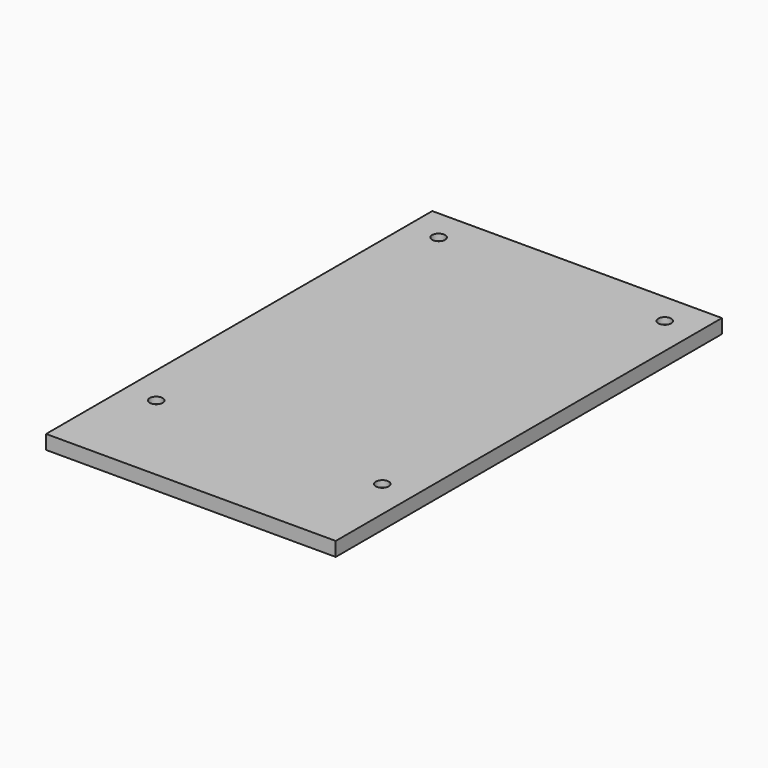
from build123d import *

# Parameters (mm, degrees)
CYLINDER007_R     = 2.8
CYLINDER007_DEPTH = 1.75
CYLINDER006_R     = 2.8
CYLINDER006_DEPTH = 1.75
CYLINDER005_R     = 2.8
CYLINDER005_DEPTH = 1.75
CYLINDER004_R     = 2.8
CYLINDER004_DEPTH = 1.75
CYLINDER003_R     = 1.5
CYLINDER003_DEPTH = 10
CYLINDER002_R     = 1.5
CYLINDER002_DEPTH = 10
CYLINDER001_R     = 1.5
CYLINDER001_DEPTH = 10
CYLINDER_R        = 1.5
CYLINDER_DEPTH    = 10
BOX001_W          = 66.69
BOX001_H          = 111.14
BOX001_DEPTH      = 3.25


with BuildPart() as cylinder007:
    # Cylinder007 → Cylinder007 (new body)
    with BuildSketch(Plane(origin=(55.88, 100.33, 0), x_dir=(1, 0, 0), z_dir=(0, 0, 1))):
        Circle(CYLINDER007_R)
    extrude(amount=CYLINDER007_DEPTH)


with BuildPart() as cylinder006:
    # Cylinder006 → Cylinder006 (new body)
    with BuildSketch(Plane(origin=(3.81, 100.33, 0), x_dir=(1, 0, 0), z_dir=(0, 0, 1))):
        Circle(CYLINDER006_R)
    extrude(amount=CYLINDER006_DEPTH)


with BuildPart() as cylinder005:
    # Cylinder005 → Cylinder005 (new body)
    with BuildSketch(Plane(origin=(55.88, 19.05, 0), x_dir=(1, 0, 0), z_dir=(0, 0, 1))):
        Circle(CYLINDER005_R)
    extrude(amount=CYLINDER005_DEPTH)


with BuildPart() as cylinder004:
    # Cylinder004 → Cylinder004 (new body)
    with BuildSketch(Plane(origin=(3.81, 19.05, 0), x_dir=(1, 0, 0), z_dir=(0, 0, 1))):
        Circle(CYLINDER004_R)
    extrude(amount=CYLINDER004_DEPTH)


with BuildPart() as cylinder003:
    # Cylinder003 → Cylinder003 (new body)
    with BuildSketch(Plane(origin=(55.88, 100.33, -1), x_dir=(1, 0, 0), z_dir=(0, 0, 1))):
        Circle(CYLINDER003_R)
    extrude(amount=CYLINDER003_DEPTH)


with BuildPart() as cylinder002:
    # Cylinder002 → Cylinder002 (new body)
    with BuildSketch(Plane(origin=(3.81, 100.33, -1), x_dir=(1, 0, 0), z_dir=(0, 0, 1))):
        Circle(CYLINDER002_R)
    extrude(amount=CYLINDER002_DEPTH)


with BuildPart() as cylinder001:
    # Cylinder001 → Cylinder001 (new body)
    with BuildSketch(Plane(origin=(55.88, 19.05, -1), x_dir=(1, 0, 0), z_dir=(0, 0, 1))):
        Circle(CYLINDER001_R)
    extrude(amount=CYLINDER001_DEPTH)


with BuildPart() as cylinder:
    # Cylinder → Cylinder (new body)
    with BuildSketch(Plane(origin=(3.81, 19.05, -1), x_dir=(1, 0, 0), z_dir=(0, 0, 1))):
        Circle(CYLINDER_R)
    extrude(amount=CYLINDER_DEPTH)


with BuildPart() as cut007:
    # Box001 → Box001 (new body)
    with BuildSketch(Plane(origin=(-3.5, -3.5, 0), x_dir=(1, 0, 0), z_dir=(0, 0, 1))):
        with Locations((33.345, 55.57)):
            Rectangle(BOX001_W, BOX001_H)
    extrude(amount=BOX001_DEPTH)

    # Cut: cut Cylinder
    add(cylinder.part, mode=Mode.SUBTRACT)

    # Cut001: cut Cylinder001
    add(cylinder001.part, mode=Mode.SUBTRACT)

    # Cut002: cut Cylinder002
    add(cylinder002.part, mode=Mode.SUBTRACT)

    # Cut003: cut Cylinder003
    add(cylinder003.part, mode=Mode.SUBTRACT)

    # Cut004: cut Cylinder004
    add(cylinder004.part, mode=Mode.SUBTRACT)

    # Cut005: cut Cylinder005
    add(cylinder005.part, mode=Mode.SUBTRACT)

    # Cut006: cut Cylinder006
    add(cylinder006.part, mode=Mode.SUBTRACT)

    # Cut007: cut Cylinder007
    add(cylinder007.part, mode=Mode.SUBTRACT)


solid = cut007.part
